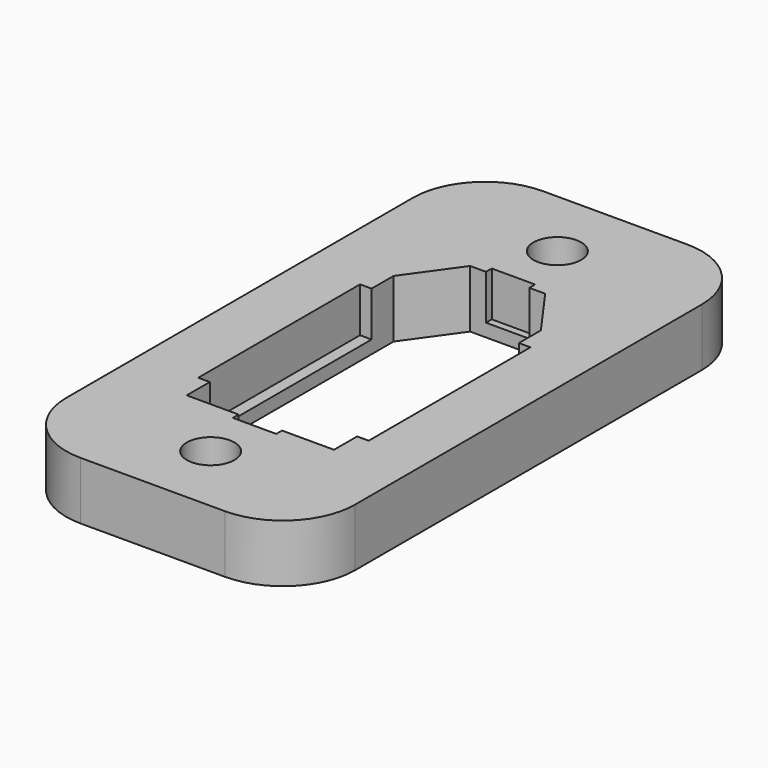
from build123d import *

# Parameters (mm, degrees)
F0_W     = 20
F0_H     = 40
F0_R     = 1.65
F1_DEPTH = 4
F2_R     = 5
F4_W     = 0.8
F4_H     = 14
F4_W_2   = 3
F4_H_2   = 0.5
F5_DEPTH = 3.5


with BuildPart() as f1:
    # F0 (on Top) → F1 (new body)
    with BuildSketch(Plane.XY):
        Rectangle(F0_W, F0_H)
        with Locations((0, -15)):
            Circle(F0_R, mode=Mode.SUBTRACT)
        Polygon((5.1, -10.7), (-5.1, -10.7), (-5.1, 7.2), (-2.6, 10.7), (2.6, 10.7), (5.1, 7.2), align=None, mode=Mode.SUBTRACT)
        with Locations((0, 15)):
            Circle(F0_R, mode=Mode.SUBTRACT)
    extrude(amount=F1_DEPTH)

    # F2
    f2_edges = [f1.edges().sort_by_distance(p)[0] for p in [
        (-10, 20, 2),
        (-10, -20, 2),
        (10, -20, 2),
        (10, 20, 2),
    ]]
    fillet(f2_edges, radius=F2_R)

    # F4 (on offset) → F5 (cut)
    with BuildSketch(Plane.XY.offset(0.9)):
        Polygon((-5.1, -8.7), (-5.1, -10.7), (-1.5, -10.7), (1.5, -10.7), (5.1, -10.7), (5.1, -8.7), (5.1, 5.3), (5.1, 7.2), (2.6, 10.7), (1.5, 10.7), (-1.5, 10.7), (-2.6, 10.7), (-5.1, 7.2), (-5.1, 5.3), align=None)
        with Locations((-5.5, -1.7)):
            Rectangle(F4_W, F4_H)
        with Locations((0, 10.95)):
            Rectangle(F4_W_2, F4_H_2)
        with Locations((5.5, -1.7)):
            Rectangle(F4_W, F4_H)
        with Locations((0, -10.95)):
            Rectangle(F4_W_2, F4_H_2)
    extrude(amount=F5_DEPTH, mode=Mode.SUBTRACT)


solid = f1.part
